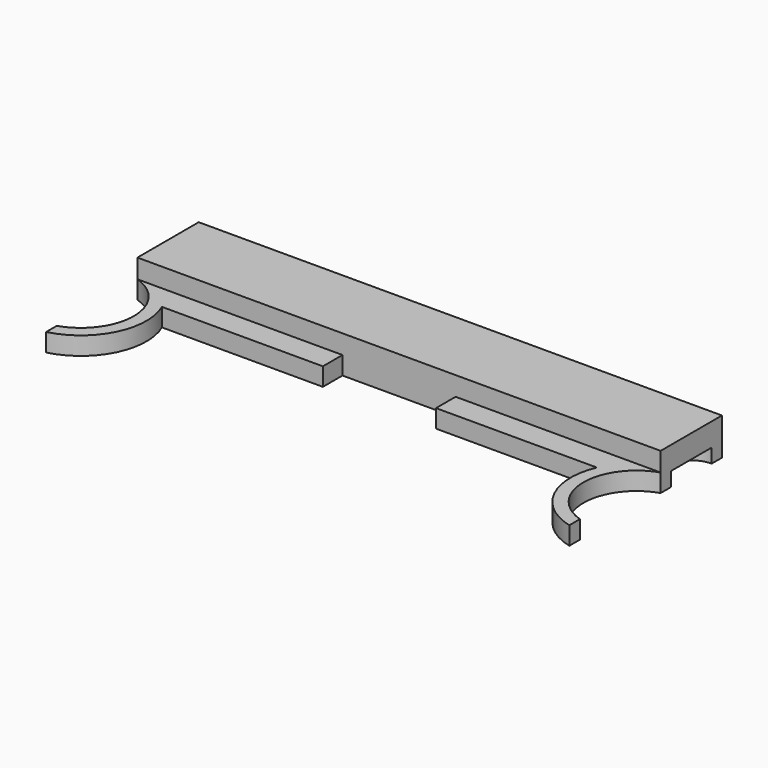
from build123d import *

# Parameters (mm, degrees)
F1_DEPTH = 6.6802
F2_DEPTH = 3.2512
F4_DEPTH = 2.54


with BuildPart() as f1:
    # F0 (on Top) → F1 (new body)
    with BuildSketch(Plane.XY):
        Polygon((46.99, 18.161), (-46.99, 18.161), (-46.99, 4.401166), (-10.16, 4.401166), (10.16, 4.401166), (46.99, 4.401166), align=None)
    extrude(amount=F1_DEPTH)

    # F0 (on Top) → F2 (join)
    with BuildSketch(Plane.XY):
        with BuildLine():
            Line((-10.16, 4.401166), (-46.99, 4.401166))
            ThreePointArc((-46.99, 4.401166), (-40.386, -4.664891), (-46.99, -13.730948))
            Line((-46.99, -13.730948), (-46.99, -16.108993))
            ThreePointArc((-46.99, -16.108993), (-39.314297, -9.881174), (-39.060262, 0))
            Line((-39.060262, 0), (-10.16, 0))
            Line((-10.16, 0), (-10.16, 4.401166))
        make_face()
        with BuildLine():
            ThreePointArc((46.99, -13.730948), (40.386, -4.664891), (46.99, 4.401166))
            Line((46.99, 4.401166), (10.16, 4.401166))
            Line((10.16, 4.401166), (10.16, 0))
            Line((10.16, 0), (39.060262, 0))
            ThreePointArc((39.060262, 0), (39.314297, -9.881174), (46.99, -16.108993))
            Line((46.99, -16.108993), (46.99, -13.730948))
        make_face()
    extrude(amount=F2_DEPTH)

    # F3 (on face) → F4 (cut)
    with BuildSketch(Plane.XY):
        with BuildLine():
            Line((-46.99, 15.853083), (-46.99, 6.709083))
            ThreePointArc((-46.99, 6.709083), (-42.418, 11.281083), (-46.99, 15.853083))
        make_face()
        with BuildLine():
            ThreePointArc((46.99, 15.853083), (42.418, 11.281083), (46.99, 6.709083))
            Line((46.99, 6.709083), (46.99, 15.853083))
        make_face()
    extrude(amount=F4_DEPTH, mode=Mode.SUBTRACT)


solid = f1.part
